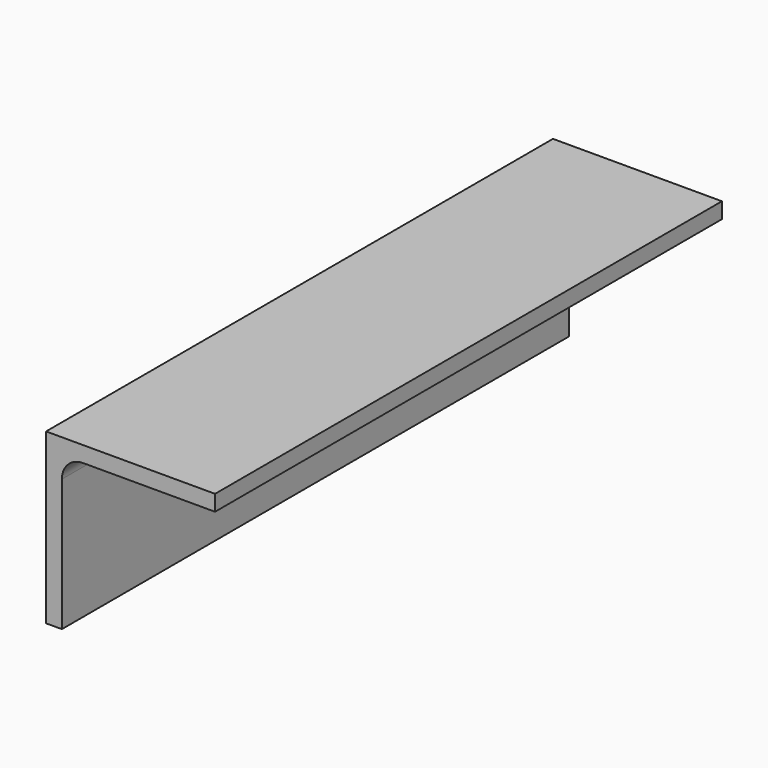
from build123d import *

# Parameters (mm, degrees)
F1_DEPTH = 190.5
F3_D     = 6.35


with BuildPart() as f1:
    # F0 (on Front) → F1 (new body)
    with BuildSketch(Plane.XZ):
        with BuildLine():
            Line((0, -4.7498), (0, 0))
            Line((0, 0), (-50.8, 0))
            Line((-50.8, 0), (-50.8, -50.8))
            Line((-50.8, -50.8), (-46.0502, -50.8))
            Line((-46.0502, -50.8), (-46.0502, -11.0998))
            ThreePointArc((-46.0502, -11.0998), (-44.190328, -6.609672), (-39.7002, -4.7498))
            Line((-39.7002, -4.7498), (0, -4.7498))
        make_face()
    extrude(amount=F1_DEPTH)

    # F3 (through all)
    with Locations(Plane(origin=(-50.8, 0, 0), x_dir=(0, -1, 0), z_dir=(-1, 0, 0))):
        with Locations((50.8, -25.4), (139.7, -25.4)):
            Hole(F3_D / 2)


solid = f1.part
